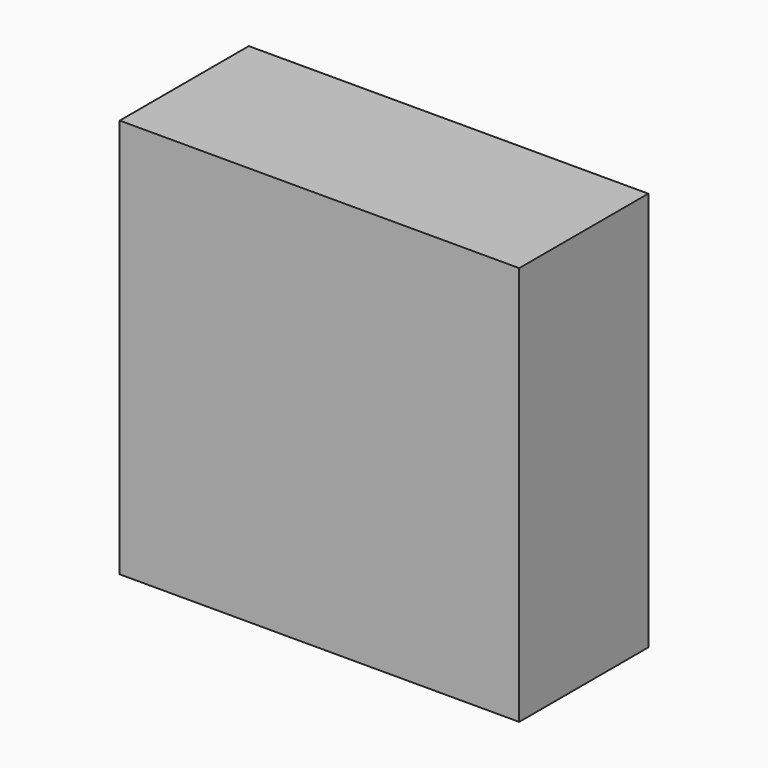
from build123d import *

# Parameters (mm, degrees)
F0_W     = 127
F0_H     = 127
F1_DEPTH = 50.8
F2_R     = 3.175
F3_DEPTH = 6.35
F4_T     = 2.54


with BuildPart() as f1:
    # F0 (on Front) → F1 (new body)
    with BuildSketch(Plane.XZ):
        Rectangle(F0_W, F0_H)
    extrude(amount=-F1_DEPTH)

    # F4
    f4_openings = [f1.faces().sort_by_distance(p)[0] for p in [
        (0, 50.8, 0),
    ]]
    offset(amount=F4_T, openings=f4_openings, kind=Kind.INTERSECTION)


with BuildPart() as f3:
    # F2 (on face) → F3 (new body)
    with BuildSketch(Plane.XZ):
        Circle(F2_R)
    extrude(amount=-F3_DEPTH)


solid = Compound([f1.part, f3.part])
